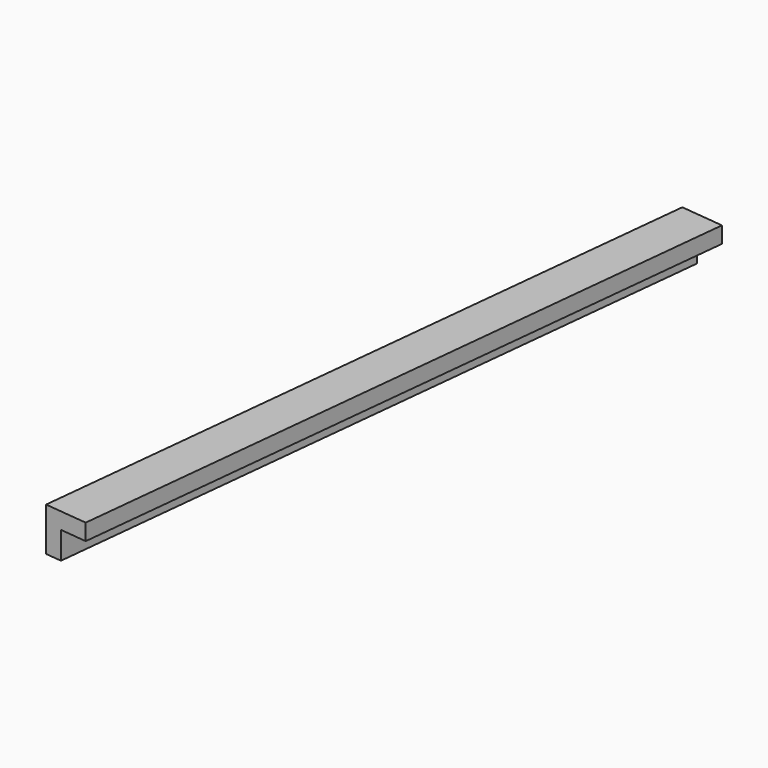
from build123d import *

# Parameters (mm, degrees)
BOX183_W               = 0.8
BOX183_H               = 13
BOX183_DEPTH           = 0.8
BOX184_W               = 0.8
BOX184_H               = 13
BOX184_DEPTH           = 0.8
CUT095_PLACEMENT_ANGLE = 174


with BuildPart() as cubo183:
    # Box183 → Box183 (new body)
    with BuildSketch(Plane.XY):
        with Locations((0.4, 6.5)):
            Rectangle(BOX183_W, BOX183_H)
    extrude(amount=BOX183_DEPTH)


with BuildPart() as obj1:
    # Box184 → Box184 (new body)
    with BuildSketch(Plane(origin=(0.3, 0, 0.3), x_dir=(1, 0, 0), z_dir=(0, 0, 1))):
        with Locations((0.4, 6.5)):
            Rectangle(BOX184_W, BOX184_H)
    extrude(amount=BOX184_DEPTH)

    # Cut095: cut Cubo183
    add(cubo183.part, mode=Mode.SUBTRACT)


with BuildPart() as obj1_1:
    # Cut095 placement: moved
    add(obj1.part.moved(Location((-145.5, 181.9, -1.45))).rotate(Axis((-145.5, 181.9, -1.45), (0, 0, 1)), CUT095_PLACEMENT_ANGLE))


solid = obj1_1.part
